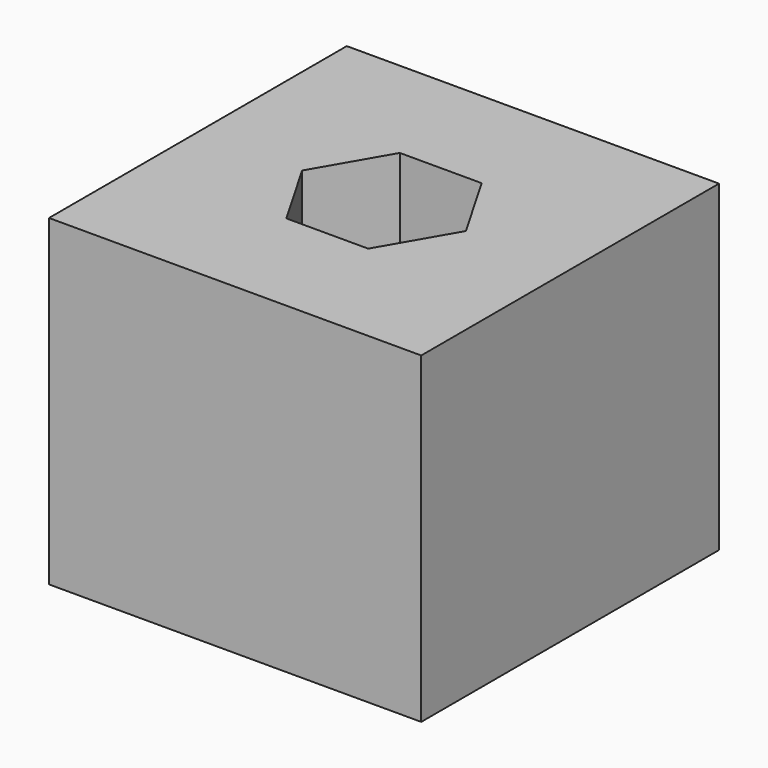
from build123d import *

# Parameters (mm, degrees)
F0_W     = 15
F0_H     = 15
F0_R     = 2.9
F0_R_2   = 1.55
F0_R_3   = 1.35
F1_DEPTH = 13
F2_DEPTH = 8
F3_DEPTH = 3
F4_R     = 1.35
F5_DEPTH = 3.3


with BuildPart() as f1:
    # F0 (on Top) → F1 (new body)
    with BuildSketch(Plane.XY):
        Rectangle(F0_W, F0_H)
        Circle(F0_R, mode=Mode.SUBTRACT)
        Circle(F0_R)
        Circle(F0_R_2, mode=Mode.SUBTRACT)
        Circle(F0_R_2)
        Circle(F0_R_3, mode=Mode.SUBTRACT)
    extrude(amount=F1_DEPTH)

    # F0 (on Top) → F2 (cut)
    with BuildSketch(Plane.XY):
        Circle(F0_R_2)
        Circle(F0_R_3, mode=Mode.SUBTRACT)
    extrude(amount=F2_DEPTH, mode=Mode.SUBTRACT)

    # F0 (on Top) → F3 (cut)
    with BuildSketch(Plane.XY):
        Circle(F0_R)
        Circle(F0_R_2, mode=Mode.SUBTRACT)
    extrude(amount=F3_DEPTH, mode=Mode.SUBTRACT)

    # F4 (on face) → F5 (cut)
    with BuildSketch(Plane.XY.offset(13)):
        Polygon((3.3, 0), (1.65, 2.857884), (-1.65, 2.857884), (-3.3, 0), (-1.65, -2.857884), (1.65, -2.857884), align=None)
        Circle(F4_R, mode=Mode.SUBTRACT)
    extrude(amount=-F5_DEPTH, mode=Mode.SUBTRACT)


solid = f1.part
